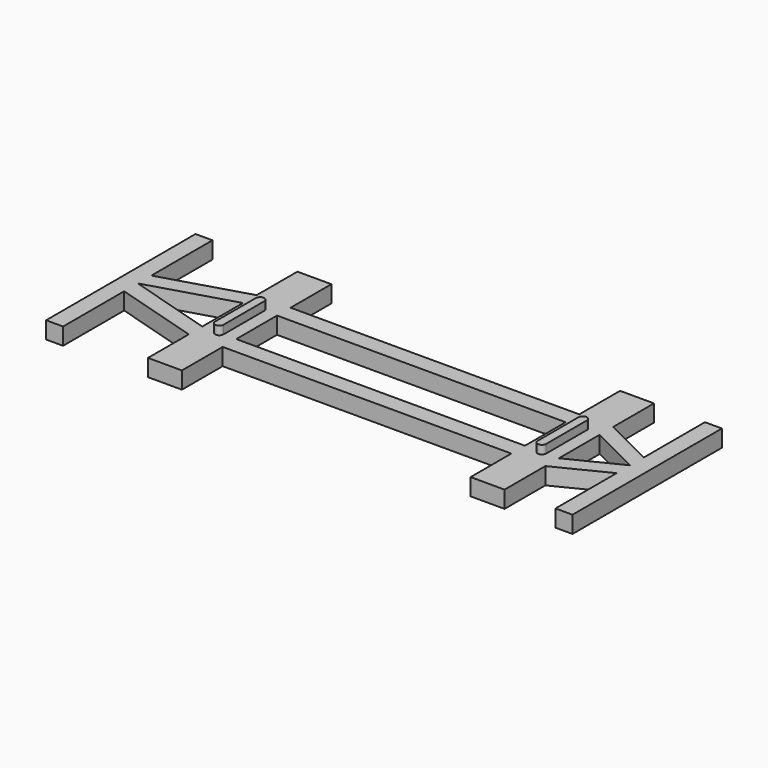
from build123d import *

# Parameters (mm, degrees)
F1_DEPTH = 2
F3_DEPTH = 1


with BuildPart() as f1:
    # F0 (on Top) → F1 (new body)
    with BuildSketch(Plane.XY):
        Polygon((0, 22), (0, 11), (0, 0), (2, 0), (2, 9), (12, 6), (12, 0), (16, 0), (16, 6), (50, 6), (50, 0), (54, 0), (54, 6), (60, 9), (60, 0), (62, 0), (62, 11), (62, 22), (60, 22), (60, 13), (54, 16), (54, 22), (50, 22), (50, 16), (16, 16), (16, 22), (12, 22), (12, 16), (2, 13), (2, 22), align=None)
        Polygon((12, 8), (2, 11), (12, 14), (12, 11), align=None, mode=Mode.SUBTRACT)
        Polygon((50, 8), (16, 8), (16, 11), (16, 14), (50, 14), (50, 11), align=None, mode=Mode.SUBTRACT)
        Polygon((60, 11), (54, 8), (54, 11), (54, 14), align=None, mode=Mode.SUBTRACT)
    extrude(amount=F1_DEPTH)

    # F2 (on face) → F3 (join)
    with BuildSketch(Plane.XY.offset(2)):
        with BuildLine():
            Line((14.5, 8), (14.5, 14))
            ThreePointArc((14.5, 14), (14, 14.5), (13.5, 14))
            Line((13.5, 14), (13.5, 8))
            ThreePointArc((13.5, 8), (14, 7.5), (14.5, 8))
        make_face()
        with BuildLine():
            ThreePointArc((52.5, 14), (52, 14.5), (51.5, 14))
            Line((51.5, 14), (51.5, 8))
            ThreePointArc((51.5, 8), (52, 7.5), (52.5, 8))
            Line((52.5, 8), (52.5, 14))
        make_face()
    extrude(amount=F3_DEPTH)


solid = f1.part
